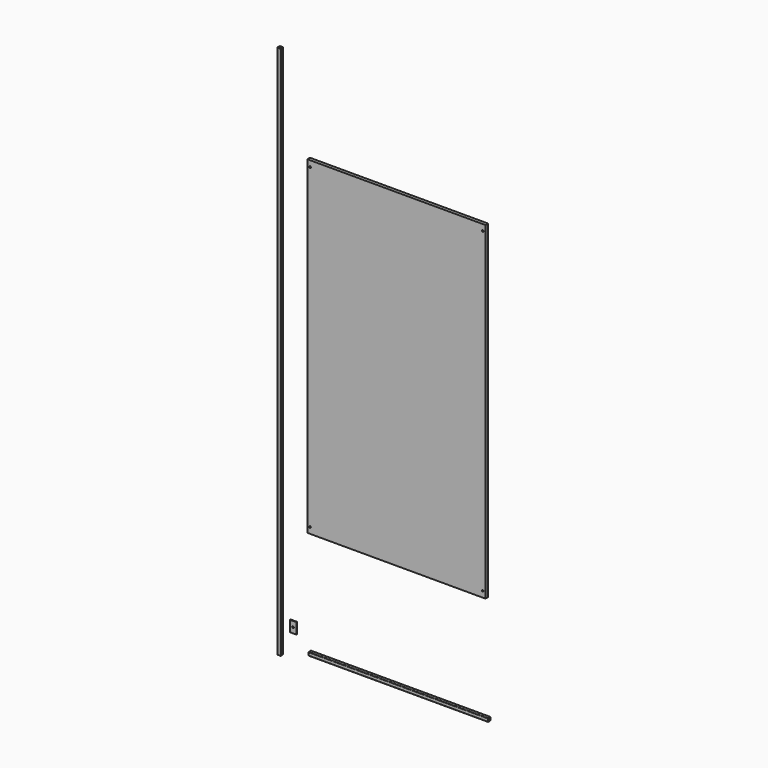
from build123d import *

# Parameters (mm, degrees)
F0_W     = 10.1
F0_H     = 10.1
F1_DEPTH = 1950
F2_W     = 10.1
F2_H     = 10.1
F3_DEPTH = 654
F4_W     = 24
F4_H     = 40
F4_R     = 3.1
F5_DEPTH = 3
F6_W     = 650
F6_H     = 1200
F6_R     = 3.05
F7_DEPTH = 12


with BuildPart() as f1:
    # F0 (on Top) → F1 (new body)
    with BuildSketch(Plane.XY):
        with BuildLine():
            Line((-56.461647, -52.961955), (-64.961647, -52.961955))
            ThreePointArc((-64.961647, -52.961955), (-66.37586, -53.547741), (-66.961647, -54.961955))
            Line((-66.961647, -54.961955), (-66.961647, -63.461955))
            ThreePointArc((-66.961647, -63.461955), (-66.37586, -64.876168), (-64.961647, -65.461955))
            Line((-64.961647, -65.461955), (-56.461647, -65.461955))
            ThreePointArc((-56.461647, -65.461955), (-55.047433, -64.876168), (-54.461647, -63.461955))
            Line((-54.461647, -63.461955), (-54.461647, -54.961955))
            ThreePointArc((-54.461647, -54.961955), (-55.047433, -53.547741), (-56.461647, -52.961955))
        make_face()
        with Locations((-60.711647, -59.211955)):
            Rectangle(F0_W, F0_H, mode=Mode.SUBTRACT)
    extrude(amount=F1_DEPTH)


with BuildPart() as f3:
    # F2 (on Right) → F3 (new body)
    with BuildSketch(Plane.YZ):
        with BuildLine():
            Line((4.25, 6.25), (-4.25, 6.25))
            ThreePointArc((-4.25, 6.25), (-5.664214, 5.664214), (-6.25, 4.25))
            Line((-6.25, 4.25), (-6.25, -4.25))
            ThreePointArc((-6.25, -4.25), (-5.664214, -5.664214), (-4.25, -6.25))
            Line((-4.25, -6.25), (4.25, -6.25))
            ThreePointArc((4.25, -6.25), (5.664214, -5.664214), (6.25, -4.25))
            Line((6.25, -4.25), (6.25, 4.25))
            ThreePointArc((6.25, 4.25), (5.664214, 5.664214), (4.25, 6.25))
        make_face()
        Rectangle(F2_W, F2_H, mode=Mode.SUBTRACT)
    extrude(amount=F3_DEPTH)


with BuildPart() as f5:
    # F4 (on Front) → F5 (new body)
    with BuildSketch(Plane.XZ):
        with Locations((-59.05548, 65.544006)):
            Rectangle(F4_W, F4_H)
        with Locations((-59.05548, 65.544006)):
            Circle(F4_R, mode=Mode.SUBTRACT)
    extrude(amount=F5_DEPTH)


with BuildPart() as f7:
    # F6 (on Front) → F7 (new body)
    with BuildSketch(Plane.XZ):
        with Locations((325, 991.384363)):
            Rectangle(F6_W, F6_H)
        with Locations((10, 413.384363)):
            Circle(F6_R, mode=Mode.SUBTRACT)
        with Locations((640, 413.384363)):
            Circle(F6_R, mode=Mode.SUBTRACT)
        with Locations((10, 1569.384363)):
            Circle(F6_R, mode=Mode.SUBTRACT)
        with Locations((640, 1569.384363)):
            Circle(F6_R, mode=Mode.SUBTRACT)
        with Locations((325, 991.384363)):
            Rectangle(F6_W, F6_H)
        with Locations((10, 413.384363)):
            Circle(F6_R, mode=Mode.SUBTRACT)
        with Locations((640, 413.384363)):
            Circle(F6_R, mode=Mode.SUBTRACT)
        with Locations((10, 1569.384363)):
            Circle(F6_R, mode=Mode.SUBTRACT)
        with Locations((640, 1569.384363)):
            Circle(F6_R, mode=Mode.SUBTRACT)
    extrude(amount=F7_DEPTH)


solid = Compound([f1.part, f3.part, f5.part, f7.part])
